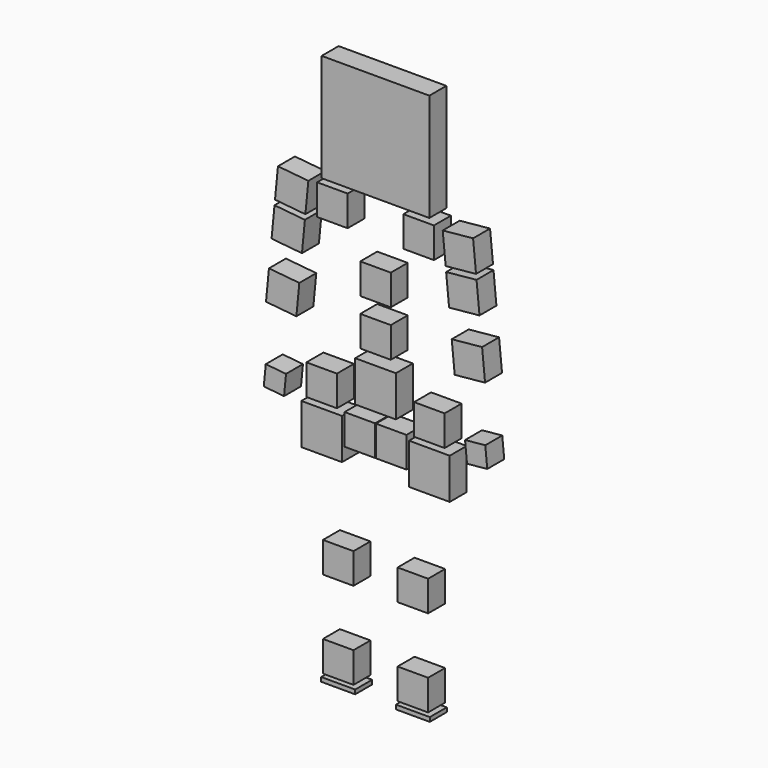
from build123d import *

# Parameters (mm, degrees)
F1_W     = 36
F1_H     = 36
F1_W_2   = 48
F1_H_2   = 48
F1_W_3   = 127
F1_H_3   = 127
F1_W_4   = 40
F1_H_4   = 5
F2_DEPTH = 25


with BuildPart() as f2:
    # F1 (on Front) → F2 (new body)
    with BuildSketch(Plane.XZ):
        with Locations((44, 27.18115)):
            Rectangle(F1_W, F1_H)
        with Locations((44, 130)):
            Rectangle(F1_W, F1_H)
        with Locations((63.508555, 260)):
            Rectangle(F1_W_2, F1_H_2)
        with Locations((63.508555, 308)):
            Rectangle(F1_W, F1_H)
        with Locations((18.5, 271)):
            Rectangle(F1_W, F1_H)
        with Locations((0, 325)):
            Rectangle(F1_W_2, F1_H_2)
        with Locations((0, 379)):
            Rectangle(F1_W, F1_H)
        with Locations((0, 433.454706)):
            Rectangle(F1_W, F1_H)
        with Locations((-44, 27.18115)):
            Rectangle(F1_W, F1_H)
        with Locations((-63.508555, 308)):
            Rectangle(F1_W, F1_H)
        with Locations((-63.508555, 260)):
            Rectangle(F1_W_2, F1_H_2)
        with Locations((-18.5, 271)):
            Rectangle(F1_W, F1_H)
        with Locations((-44, 130)):
            Rectangle(F1_W, F1_H)
        with Locations((50.879549, 499)):
            Rectangle(F1_W, F1_H)
        Polygon((93.33957, 369.894603), (129.170818, 373.37622), (125.689201, 409.207468), (89.857953, 405.725851), align=None)
        Polygon((86.766621, 437.540444), (122.597869, 441.022062), (119.116252, 476.85331), (83.285004, 473.371692), align=None)
        Polygon((82.704734, 479.343567), (118.535982, 482.825185), (115.054364, 518.656433), (79.223116, 515.174815), align=None)
        Polygon((105.557865, 306.189522), (107.878943, 282.302023), (131.766442, 284.623102), (129.445363, 308.5106), align=None)
        Polygon((-119.116252, 476.85331), (-122.597869, 441.022062), (-86.766621, 437.540444), (-83.285004, 473.371692), align=None)
        Polygon((-107.878943, 282.302023), (-105.557865, 306.189522), (-129.445363, 308.5106), (-131.766442, 284.623102), align=None)
        Polygon((-115.054364, 518.656433), (-118.535982, 482.825185), (-82.704734, 479.343567), (-79.223116, 515.174815), align=None)
        with Locations((-50.879549, 499)):
            Rectangle(F1_W, F1_H)
        Polygon((-125.689201, 409.207468), (-129.170818, 373.37622), (-93.33957, 369.894603), (-89.857953, 405.725851), align=None)
        with Locations((0, 586.5)):
            Rectangle(F1_W_3, F1_H_3)
        with Locations((44, 2.5)):
            Rectangle(F1_W_4, F1_H_4)
        with Locations((-44, 2.5)):
            Rectangle(F1_W_4, F1_H_4)
    extrude(amount=F2_DEPTH)


solid = f2.part
